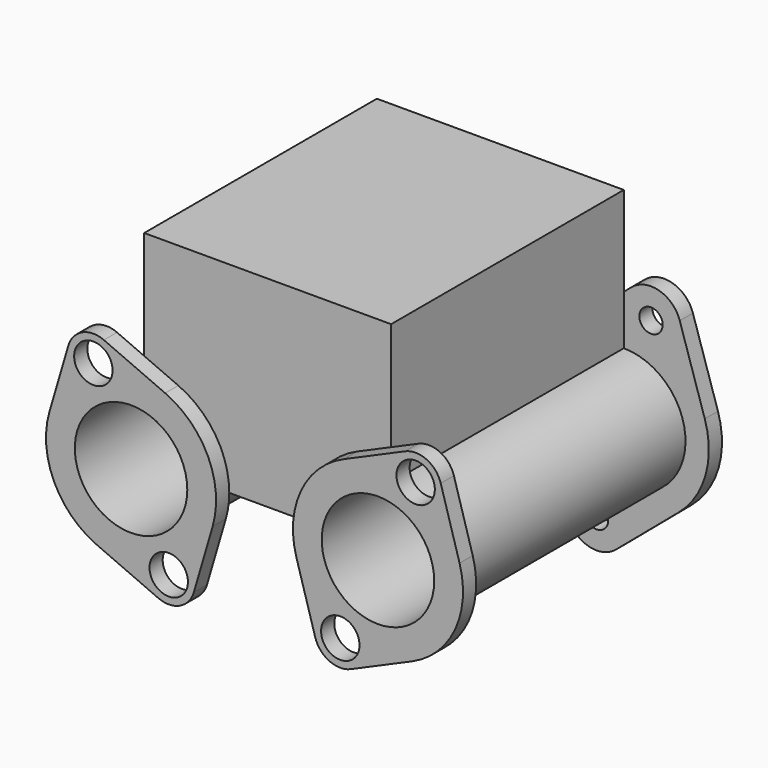
from build123d import *

# Parameters (mm, degrees)
F0_R      = 4.25
F0_R_2    = 20.5
F1_DEPTH  = 6
F3_R      = 7
F3_R_2    = 22.5
F4_DEPTH  = 6
F5_R      = 22.5
F5_R_2    = 20.5
F6_DEPTH  = 112
F9_DEPTH  = 106
F10_DEPTH = 50.8


with BuildPart() as f1:
    # F0 (on Front) → F1 (new body)
    with BuildSketch(Plane.XZ):
        with BuildLine():
            Line((-65.399358, 37.958743), (-74.524437, 9.450272))
            ThreePointArc((-74.524437, 9.450272), (-74.799113, -8.544758), (-65.030261, -23.659853))
            Line((-65.030261, -23.659853), (-42.184567, -43.000853))
            ThreePointArc((-42.184567, -43.000853), (-32.045044, -45.1793), (-24.600642, -37.958743))
            Line((-24.600642, -37.958743), (-15.475563, -9.450272))
            ThreePointArc((-15.475563, -9.450272), (-15.200887, 8.544758), (-24.969739, 23.659853))
            Line((-24.969739, 23.659853), (-47.815433, 43.000853))
            ThreePointArc((-47.815433, 43.000853), (-57.954956, 45.1793), (-65.399358, 37.958743))
        make_face()
        with Locations((-35.077055, -34.605421)):
            Circle(F0_R, mode=Mode.SUBTRACT)
        with Locations((-45, 0)):
            Circle(F0_R_2, mode=Mode.SUBTRACT)
        with Locations((-54.922945, 34.605421)):
            Circle(F0_R, mode=Mode.SUBTRACT)
        with BuildLine():
            ThreePointArc((24.969739, 23.659853), (15.200887, 8.544758), (15.475563, -9.450272))
            Line((15.475563, -9.450272), (24.600642, -37.958743))
            ThreePointArc((24.600642, -37.958743), (32.045044, -45.1793), (42.184567, -43.000853))
            Line((42.184567, -43.000853), (65.030261, -23.659853))
            ThreePointArc((65.030261, -23.659853), (74.799113, -8.544758), (74.524437, 9.450272))
            Line((74.524437, 9.450272), (65.399358, 37.958743))
            ThreePointArc((65.399358, 37.958743), (57.954956, 45.1793), (47.815433, 43.000853))
            Line((47.815433, 43.000853), (24.969739, 23.659853))
        make_face()
        with Locations((35.077055, -34.605421)):
            Circle(F0_R, mode=Mode.SUBTRACT)
        with Locations((45, 0)):
            Circle(F0_R_2, mode=Mode.SUBTRACT)
        with Locations((54.922945, 34.605421)):
            Circle(F0_R, mode=Mode.SUBTRACT)
    extrude(amount=F1_DEPTH)



with BuildPart() as f4:
    # F3 (on offset) → F4 (new body)
    with BuildSketch(Plane.XZ.offset(118)):
        with BuildLine():
            Line((15.254945, -8.731077), (22.125498, -32.137697))
            ThreePointArc((22.125498, -32.137697), (27.239468, -38.087585), (35.084542, -38.180598))
            Line((35.084542, -38.180598), (57.43136, -28.398262))
            ThreePointArc((57.43136, -28.398262), (73.095541, -13.101166), (74.745055, 8.731077))
            Line((74.745055, 8.731077), (67.874502, 32.137697))
            ThreePointArc((67.874502, 32.137697), (62.760532, 38.087585), (54.915458, 38.180598))
            Line((54.915458, 38.180598), (32.56864, 28.398262))
            ThreePointArc((32.56864, 28.398262), (16.904459, 13.101166), (15.254945, -8.731077))
        make_face()
        with Locations((31.264906, -29.455003)):
            Circle(F3_R, mode=Mode.SUBTRACT)
        with Locations((45, 0)):
            Circle(F3_R_2, mode=Mode.SUBTRACT)
        with Locations((58.735094, 29.455003)):
            Circle(F3_R, mode=Mode.SUBTRACT)
        with BuildLine():
            ThreePointArc((-54.915458, 38.180598), (-62.760532, 38.087585), (-67.874502, 32.137697))
            Line((-67.874502, 32.137697), (-74.745055, 8.731077))
            ThreePointArc((-74.745055, 8.731077), (-73.095541, -13.101166), (-57.43136, -28.398262))
            Line((-57.43136, -28.398262), (-35.084542, -38.180598))
            ThreePointArc((-35.084542, -38.180598), (-27.239468, -38.087585), (-22.125498, -32.137697))
            Line((-22.125498, -32.137697), (-15.254945, -8.731077))
            ThreePointArc((-15.254945, -8.731077), (-16.904459, 13.101166), (-32.56864, 28.398262))
            Line((-32.56864, 28.398262), (-54.915458, 38.180598))
        make_face()
        with Locations((-31.264906, -29.455003)):
            Circle(F3_R, mode=Mode.SUBTRACT)
        with Locations((-45, 0)):
            Circle(F3_R_2, mode=Mode.SUBTRACT)
        with Locations((-58.735094, 29.455003)):
            Circle(F3_R, mode=Mode.SUBTRACT)
    extrude(amount=-F4_DEPTH)


with BuildPart() as f6:
    # F5 (on face) → F6 (new body, through all)
    with BuildSketch(Plane.XZ.offset(6)):
        with Locations((-45, 0)):
            Circle(F5_R)
        with Locations((-45, 0)):
            Circle(F5_R_2, mode=Mode.SUBTRACT)
        with Locations((45, 0)):
            Circle(F5_R)
        with Locations((45, 0)):
            Circle(F5_R_2, mode=Mode.SUBTRACT)
    extrude(amount=F6_DEPTH)

    # F7: union F4
    add(f4.part)


with BuildPart() as f1_1:
    add(f1.part)

    add(f6.part)  # F9 merges F6
    # F8 (on face) → F9 (join, through all)
    with BuildSketch(Plane.XZ.offset(6)):
        with BuildLine():
            ThreePointArc((-45, 22.5), (-29.090097, 15.909903), (-22.5, 0))
            Line((-22.5, 0), (22.5, 0))
            ThreePointArc((22.5, 0), (29.090097, 15.909903), (45, 22.5))
            Line((45, 22.5), (-45, 22.5))
        make_face()
    extrude(amount=F9_DEPTH)

    # F9_face (on face) → F10 (join)
    with BuildSketch(Plane(origin=(0, -59, 22.5), x_dir=(1, 0, 0), z_dir=(0, 0, 1))):
        Polygon((45, -53), (45, 53), (23.675132, 53), (-23.675132, 53), (-45, 53), (-45, -53), (-23.675132, -53), (23.675132, -53), align=None)
    extrude(amount=F10_DEPTH)


solid = f1_1.part
